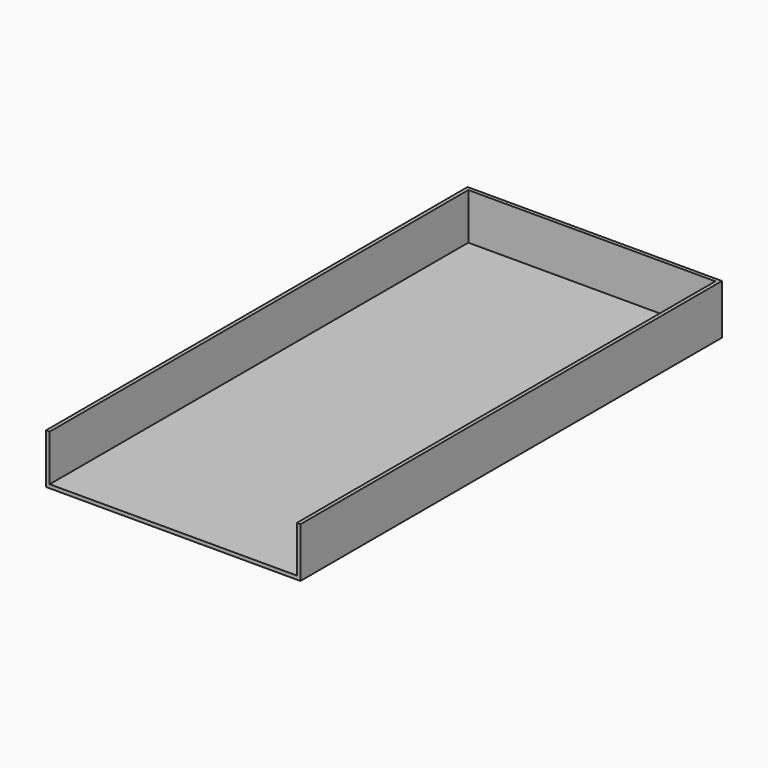
from build123d import *

# Parameters (mm, degrees)
F1_DEPTH = 736.6
F2_W     = 345.44
F2_H     = 5.08
F3_DEPTH = 64.77


with BuildPart() as f1:
    # F0 (on Front) → F1 (new body)
    with BuildSketch(Plane.XZ):
        Polygon((-172.72, 69.85), (-177.8, 69.85), (-177.8, 0), (177.8, 0), (177.8, 69.85), (172.72, 69.85), (172.72, 5.08), (-172.72, 5.08), align=None)
    extrude(amount=-F1_DEPTH)

    # F2 (on face) → F3 (join, through all)
    with BuildSketch(Plane.XY.offset(5.08)):
        with Locations((0, 734.06)):
            Rectangle(F2_W, F2_H)
    extrude(amount=F3_DEPTH)


solid = f1.part
